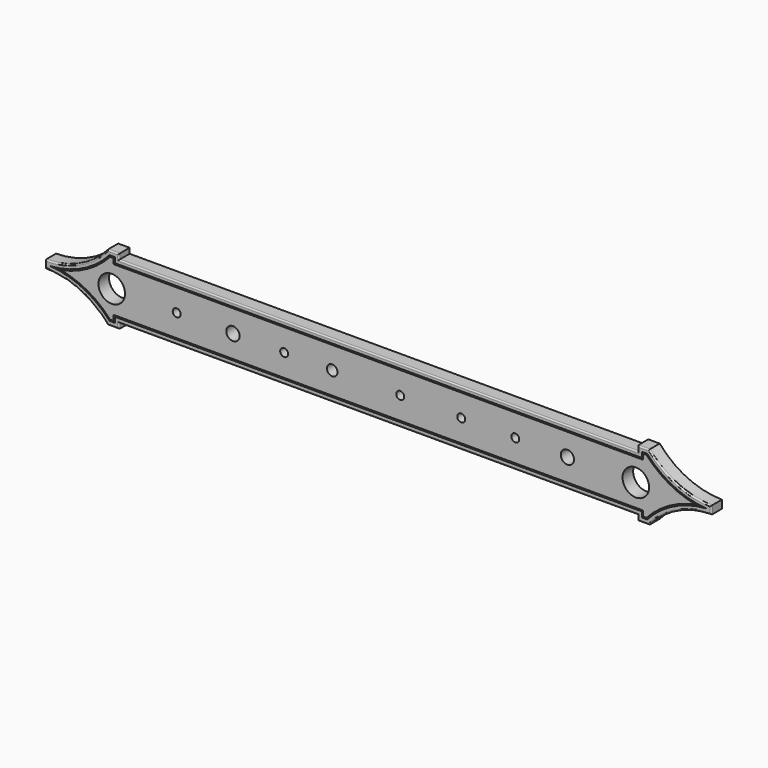
from build123d import *

# Parameters (mm, degrees)
F0_R     = 10
F0_R_2   = 3
F0_R_3   = 5
F0_R_4   = 4
F1_DEPTH = 10
F2_R     = 1
F3_DEPTH = 9


with BuildPart() as f1:
    # F0 (on Front) → F1 (new body)
    with BuildSketch(Plane.XZ):
        with BuildLine():
            Line((195.5, -25), (204.1, -25))
            ThreePointArc((204.1, -25), (225.169837, -8.939366), (251, -3.05))
            Line((251, -3.05), (251, 3.05))
            ThreePointArc((251, 3.05), (225.169837, 8.939366), (204.1, 25))
            Line((204.1, 25), (195.5, 25))
            Line((195.5, 25), (195.5, 21))
            Line((195.5, 21), (-195.5, 21))
            Line((-195.5, 21), (-195.5, 25))
            Line((-195.5, 25), (-204.1, 25))
            ThreePointArc((-204.1, 25), (-225.169837, 8.939366), (-251, 3.05))
            Line((-251, 3.05), (-251, -3.05))
            ThreePointArc((-251, -3.05), (-225.169837, -8.939366), (-204.1, -25))
            Line((-204.1, -25), (-195.5, -25))
            Line((-195.5, -25), (-195.5, -21))
            Line((-195.5, -21), (195.5, -21))
            Line((195.5, -21), (195.5, -25))
        make_face()
        with BuildLine():
            Line((-202.64971, 21.81), (-198.69, 21.81))
            Line((-198.69, 21.81), (-198.69, 17.81))
            Line((-198.69, 17.81), (198.69, 17.81))
            Line((198.69, 17.81), (198.69, 21.81))
            Line((198.69, 21.81), (202.64971, 21.81))
            ThreePointArc((202.64971, 21.81), (222.843542, 6.515825), (247.323057, 0))
            ThreePointArc((247.323057, 0), (222.843542, -6.515825), (202.64971, -21.81))
            Line((202.64971, -21.81), (198.69, -21.81))
            Line((198.69, -21.81), (198.69, -17.81))
            Line((198.69, -17.81), (-198.69, -17.81))
            Line((-198.69, -17.81), (-198.69, -21.81))
            Line((-198.69, -21.81), (-202.64971, -21.81))
            ThreePointArc((-202.64971, -21.81), (-222.843542, -6.515825), (-247.323057, 0))
            ThreePointArc((-247.323057, 0), (-222.843542, 6.515825), (-202.64971, 21.81))
        make_face(mode=Mode.SUBTRACT)
        with BuildLine():
            Line((202.203828, 20.81), (199.69, 20.81))
            Line((199.69, 20.81), (199.69, 16.81))
            Line((199.69, 16.81), (-199.69, 16.81))
            Line((-199.69, 16.81), (-199.69, 20.81))
            Line((-199.69, 20.81), (-202.203828, 20.81))
            ThreePointArc((-202.203828, 20.81), (-219.078949, 7.358512), (-239.366002, 0))
            ThreePointArc((-239.366002, 0), (-219.078949, -7.358512), (-202.203828, -20.81))
            Line((-202.203828, -20.81), (-199.69, -20.81))
            Line((-199.69, -20.81), (-199.69, -16.81))
            Line((-199.69, -16.81), (199.69, -16.81))
            Line((199.69, -16.81), (199.69, -20.81))
            Line((199.69, -20.81), (202.203828, -20.81))
            ThreePointArc((202.203828, -20.81), (219.078949, -7.358512), (239.366002, 0))
            ThreePointArc((239.366002, 0), (219.078949, 7.358512), (202.203828, 20.81))
        make_face()
        with Locations((-201, 0)):
            Circle(F0_R, mode=Mode.SUBTRACT)
        with Locations((-152, 0)):
            Circle(F0_R_2, mode=Mode.SUBTRACT)
        with Locations((-109.6, 0)):
            Circle(F0_R_3, mode=Mode.SUBTRACT)
        with Locations((-71, 0)):
            Circle(F0_R_2, mode=Mode.SUBTRACT)
        with Locations((-34.8, 0)):
            Circle(F0_R_4, mode=Mode.SUBTRACT)
        with Locations((16.5, 0)):
            Circle(F0_R_2, mode=Mode.SUBTRACT)
        with Locations((62.5, 0)):
            Circle(F0_R_2, mode=Mode.SUBTRACT)
        with Locations((103.2, 0)):
            Circle(F0_R_2, mode=Mode.SUBTRACT)
        with Locations((142.5, 0)):
            Circle(F0_R_3, mode=Mode.SUBTRACT)
        with Locations((194.1, 0)):
            Circle(F0_R, mode=Mode.SUBTRACT)
    extrude(amount=F1_DEPTH)

    # F2
    f2_edges = [f1.edges().sort_by_distance(p)[0] for p in [
        (0, -10, 21),
        (-195.5, -10, 23),
        (-251, -10, 0),
        (-225.169837, -10, -8.939366),
        (-199.8, -10, -25),
        (-195.5, -10, -23),
        (0, -10, -21),
        (195.5, -10, -23),
        (199.8, -10, -25),
        (225.169837, -10, -8.939366),
        (251, -10, 0),
        (225.169837, -10, 8.939366),
        (199.8, -10, 25),
        (195.5, -10, 23),
        (-199.8, -10, 25),
        (-225.169837, -10, 8.939366),
    ]]
    fillet(f2_edges, radius=F2_R)

    # F0 (on Front) → F3 (join)
    with BuildSketch(Plane.XZ):
        with BuildLine():
            Line((-198.69, 17.81), (-198.69, 21.81))
            Line((-198.69, 21.81), (-202.64971, 21.81))
            ThreePointArc((-202.64971, 21.81), (-222.843542, 6.515825), (-247.323057, 0))
            ThreePointArc((-247.323057, 0), (-222.843542, -6.515825), (-202.64971, -21.81))
            Line((-202.64971, -21.81), (-198.69, -21.81))
            Line((-198.69, -21.81), (-198.69, -17.81))
            Line((-198.69, -17.81), (198.69, -17.81))
            Line((198.69, -17.81), (198.69, -21.81))
            Line((198.69, -21.81), (202.64971, -21.81))
            ThreePointArc((202.64971, -21.81), (222.843542, -6.515825), (247.323057, 0))
            ThreePointArc((247.323057, 0), (222.843542, 6.515825), (202.64971, 21.81))
            Line((202.64971, 21.81), (198.69, 21.81))
            Line((198.69, 21.81), (198.69, 17.81))
            Line((198.69, 17.81), (-198.69, 17.81))
        make_face()
        with BuildLine():
            Line((199.69, 16.81), (199.69, 20.81))
            Line((199.69, 20.81), (202.203828, 20.81))
            ThreePointArc((202.203828, 20.81), (219.078949, 7.358512), (239.366002, 0))
            ThreePointArc((239.366002, 0), (219.078949, -7.358512), (202.203828, -20.81))
            Line((202.203828, -20.81), (199.69, -20.81))
            Line((199.69, -20.81), (199.69, -16.81))
            Line((199.69, -16.81), (-199.69, -16.81))
            Line((-199.69, -16.81), (-199.69, -20.81))
            Line((-199.69, -20.81), (-202.203828, -20.81))
            ThreePointArc((-202.203828, -20.81), (-219.078949, -7.358512), (-239.366002, 0))
            ThreePointArc((-239.366002, 0), (-219.078949, 7.358512), (-202.203828, 20.81))
            Line((-202.203828, 20.81), (-199.69, 20.81))
            Line((-199.69, 20.81), (-199.69, 16.81))
            Line((-199.69, 16.81), (199.69, 16.81))
        make_face(mode=Mode.SUBTRACT)
    extrude(amount=F3_DEPTH)


solid = f1.part
